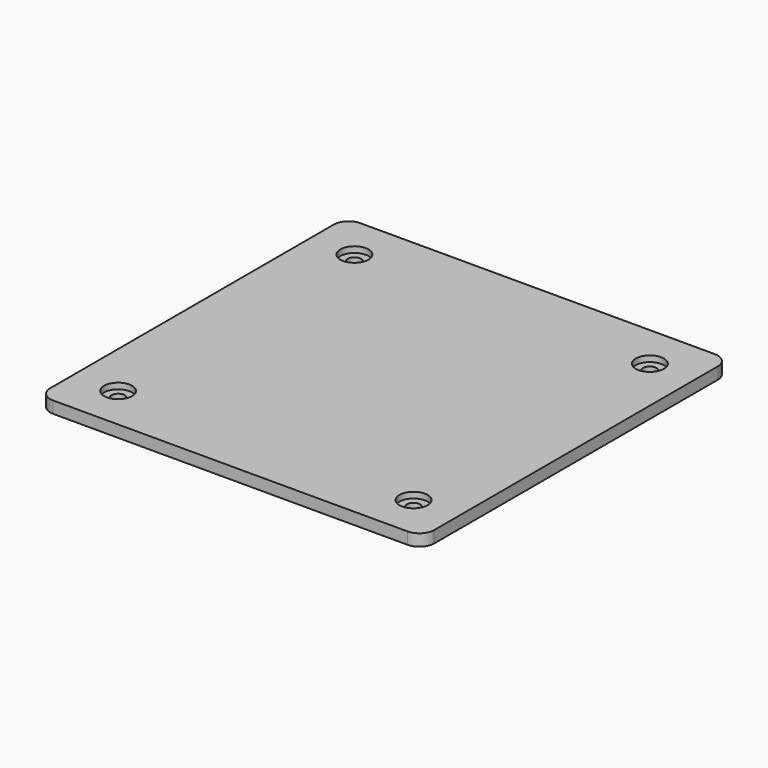
from build123d import *

# Parameters (mm, degrees)
F0_R     = 4.25
F0_R_2   = 2.25
F1_DEPTH = 4
F2_DEPTH = 1.5
F3_R     = 4.75
F3_R_2   = 2.25
F4_DEPTH = 2


with BuildPart() as f1:
    # F0 (on Top) → F1 (new body)
    with BuildSketch(Plane.XY):
        with BuildLine():
            ThreePointArc((-65, -60), (-63.5355339059, -63.5355339059), (-60, -65))
            Line((-60, -65), (60, -65))
            ThreePointArc((60, -65), (63.5355339059, -63.5355339059), (65, -60))
            Line((65, -60), (65, 60))
            ThreePointArc((65, 60), (63.5355339059, 63.5355339059), (60, 65))
            Line((60, 65), (-60, 65))
            ThreePointArc((-60, 65), (-63.5355339059, 63.5355339059), (-65, 60))
            Line((-65, 60), (-65, -60))
        make_face()
        with Locations((-50, -50)):
            Circle(F0_R, mode=Mode.SUBTRACT)
        with Locations((50, -50)):
            Circle(F0_R, mode=Mode.SUBTRACT)
        with Locations((-50, 50)):
            Circle(F0_R, mode=Mode.SUBTRACT)
        with Locations((50, 50)):
            Circle(F0_R, mode=Mode.SUBTRACT)
        with Locations((-50, -50)):
            Circle(F0_R)
        with Locations((-50, -50)):
            Circle(F0_R_2, mode=Mode.SUBTRACT)
        with Locations((50, -50)):
            Circle(F0_R)
        with Locations((50, -50)):
            Circle(F0_R_2, mode=Mode.SUBTRACT)
        with Locations((50, 50)):
            Circle(F0_R)
        with Locations((50, 50)):
            Circle(F0_R_2, mode=Mode.SUBTRACT)
        with Locations((-50, 50)):
            Circle(F0_R)
        with Locations((-50, 50)):
            Circle(F0_R_2, mode=Mode.SUBTRACT)
    extrude(amount=F1_DEPTH)

    # F0 (on Top) → F2 (join)
    with BuildSketch(Plane.XY):
        with Locations((50, -50)):
            Circle(F0_R)
        with Locations((50, -50)):
            Circle(F0_R_2, mode=Mode.SUBTRACT)
        with Locations((50, 50)):
            Circle(F0_R)
        with Locations((50, 50)):
            Circle(F0_R_2, mode=Mode.SUBTRACT)
        with Locations((-50, 50)):
            Circle(F0_R)
        with Locations((-50, 50)):
            Circle(F0_R_2, mode=Mode.SUBTRACT)
        with Locations((-50, -50)):
            Circle(F0_R)
        with Locations((-50, -50)):
            Circle(F0_R_2, mode=Mode.SUBTRACT)
    extrude(amount=-F2_DEPTH)

    # F3 (on face) → F4 (cut)
    with BuildSketch(Plane.XY.offset(4)):
        with Locations((-50, 50)):
            Circle(F3_R)
        with Locations((-50, 50)):
            Circle(F3_R_2, mode=Mode.SUBTRACT)
        with Locations((50, 50)):
            Circle(F3_R)
        with Locations((50, 50)):
            Circle(F3_R_2, mode=Mode.SUBTRACT)
        with Locations((50, -50)):
            Circle(F3_R)
        with Locations((50, -50)):
            Circle(F3_R_2, mode=Mode.SUBTRACT)
        with Locations((-50, -50)):
            Circle(F3_R)
        with Locations((-50, -50)):
            Circle(F3_R_2, mode=Mode.SUBTRACT)
    extrude(amount=-F4_DEPTH, mode=Mode.SUBTRACT)


solid = f1.part
